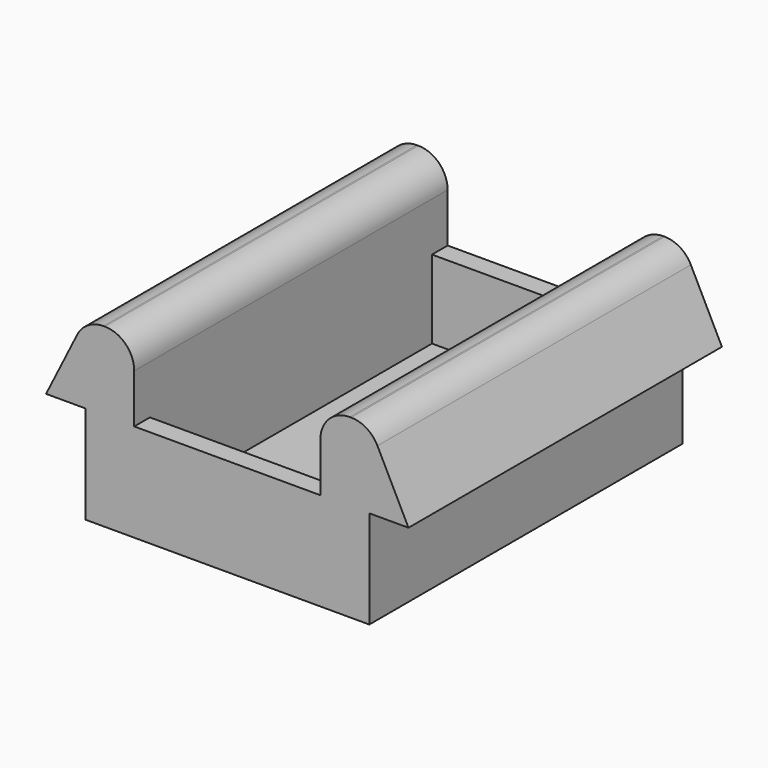
from build123d import *

# Parameters (mm, degrees)
F0_W      = 18.5
F0_H      = 20
F1_DEPTH  = 9
F2_W      = 2
F2_H      = 20
F3_DEPTH  = 5
F4_W      = 9.5
F4_H      = 18
F5_DEPTH  = 8
F6_W      = 9.5
F6_H      = 1
F7_DEPTH  = 4
F8_R      = 2
F9_DEPTH  = 25
F11_DEPTH = 20.001
F12_R     = 1.5


with BuildPart() as f1:
    # F0 (on Top) → F1 (new body)
    with BuildSketch(Plane.XY):
        Rectangle(F0_W, F0_H)
    extrude(amount=F1_DEPTH)

    # F2 (on face) → F3 (cut)
    with BuildSketch(Plane(origin=(0, 0, 0), x_dir=(1, 0, 0), z_dir=(0, 0, -1))):
        with Locations((-8.25, 0)):
            Rectangle(F2_W, F2_H)
        with Locations((8.25, 0)):
            Rectangle(F2_W, F2_H)
    extrude(amount=-F3_DEPTH, mode=Mode.SUBTRACT)

    # F4 (on face) → F5 (cut)
    with BuildSketch(Plane.XY.offset(9)):
        Rectangle(F4_W, F4_H)
    extrude(amount=-F5_DEPTH, mode=Mode.SUBTRACT)

    # F6 (on face) → F7 (cut)
    with BuildSketch(Plane.XY.offset(9)):
        with Locations((0, -9.5)):
            Rectangle(F6_W, F6_H)
        with Locations((0, 9.5)):
            Rectangle(F6_W, F6_H)
    extrude(amount=-F7_DEPTH, mode=Mode.SUBTRACT)

    # F8 (on face) → F9 (cut)
    with BuildSketch(Plane.XY.offset(1)):
        Circle(F8_R)
    extrude(amount=-F9_DEPTH, mode=Mode.SUBTRACT)

    # F10 (on face) → F11 (cut, through all)
    with BuildSketch(Plane.XZ.offset(10)):
        Polygon((-9.25, 9), (-9.25, 5), (-7.25, 9), align=None)
        Polygon((7.25, 9), (9.25, 5), (9.25, 9), align=None)
    extrude(amount=-F11_DEPTH, mode=Mode.SUBTRACT)

    # F12
    f12_edges = [f1.edges().sort_by_distance(p)[0] for p in [
        (-4.75, 0, 9),
        (-7.25, 0, 9),
        (4.75, 0, 9),
        (7.25, 0, 9),
    ]]
    fillet(f12_edges, radius=F12_R)


solid = f1.part
